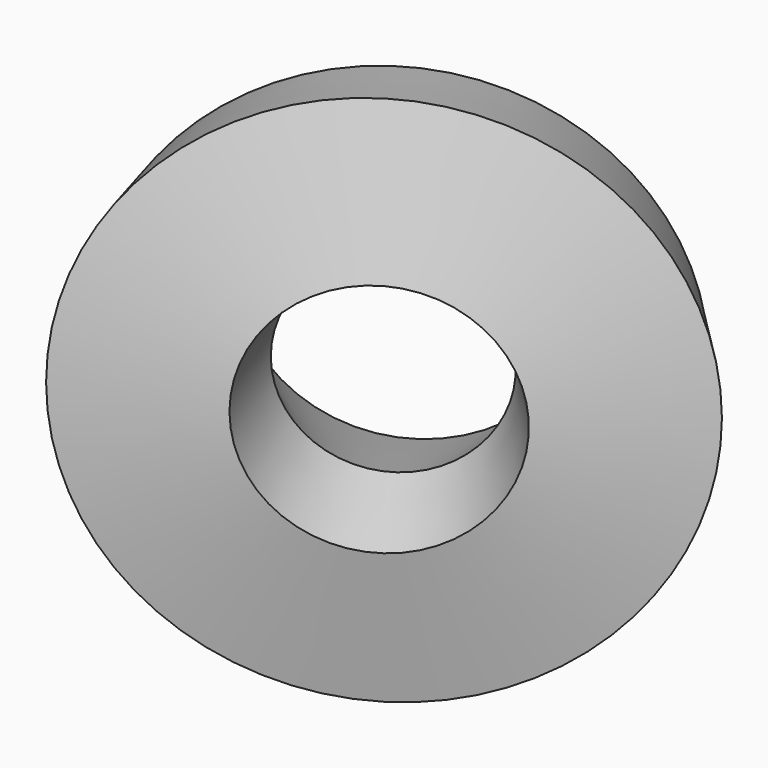
from build123d import *

# Parameters (mm, degrees)
F0_R = 46.66329


with BuildPart() as f1:
    # F0 (on Top) → F1 (revolve)
    with BuildSketch(Plane.XY):
        Polygon((53.747359, -162.637517), (12.556983, -46.721637), (-165.412663, -109.962642), (-124.222286, -225.878522), align=None)
        Polygon((-165.412663, -109.962642), (12.556983, -46.721637), (-131.196156, 75.784095), align=None)
        with Locations((-94.683945, -26.966728)):
            Circle(F0_R, mode=Mode.SUBTRACT)
        with Locations((-94.683945, -26.966728)):
            Circle(F0_R)
    revolve(axis=Axis((110.72335, 22.601932, 0), (-0.53148, 0.847071, 0)))


solid = f1.part
